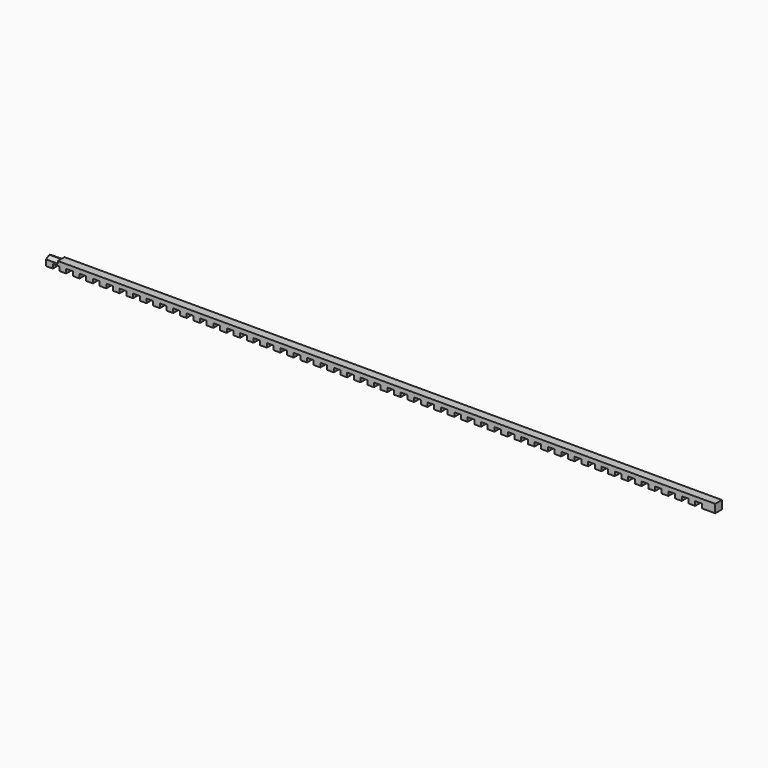
from build123d import *

# Parameters (mm, degrees)
F1_DEPTH = 25
F3_DEPTH = 70


with BuildPart() as f1:
    # F0 (on Front) → F1 (new body, symmetric)
    with BuildSketch(Plane.XZ):
        Polygon((0, 50), (0, 0), (40, 0), (40, 25), (80, 25), (80, 0), (120, 0), (120, 25), (160, 25), (160, 0), (200, 0), (200, 25), (240, 25), (240, 0), (280, 0), (280, 25), (320, 25), (320, 0), (360, 0), (360, 25), (400, 25), (400, 0), (440, 0), (440, 25), (480, 25), (480, 0), (520, 0), (520, 25), (560, 25), (560, 0), (600, 0), (600, 25), (640, 25), (640, 0), (680, 0), (680, 25), (720, 25), (720, 0), (760, 0), (760, 25), (800, 25), (800, 0), (840, 0), (840, 25), (880, 25), (880, 0), (920, 0), (920, 25), (960, 25), (960, 0), (1000, 0), (1000, 25), (1040, 25), (1040, 0), (1080, 0), (1080, 25), (1120, 25), (1120, 0), (1160, 0), (1160, 25), (1200, 25), (1200, 0), (1240, 0), (1240, 25), (1280, 25), (1280, 0), (1320, 0), (1320, 25), (1360, 25), (1360, 0), (1400, 0), (1400, 25), (1440, 25), (1440, 0), (1480, 0), (1480, 25), (1520, 25), (1520, 0), (1560, 0), (1560, 25), (1600, 25), (1600, 0), (1640, 0), (1640, 25), (1680, 25), (1680, 0), (1720, 0), (1720, 25), (1760, 25), (1760, 0), (1800, 0), (1800, 25), (1840, 25), (1840, 0), (1880, 0), (1880, 25), (1920, 25), (1920, 0), (1960, 0), (1960, 25), (2000, 25), (2000, 0), (2040, 0), (2040, 25), (2080, 25), (2080, 0), (2120, 0), (2120, 25), (2160, 25), (2160, 0), (2200, 0), (2200, 25), (2240, 25), (2240, 0), (2280, 0), (2280, 25), (2320, 25), (2320, 0), (2360, 0), (2360, 25), (2400, 25), (2400, 0), (2440, 0), (2440, 25), (2480, 25), (2480, 0), (2520, 0), (2520, 25), (2560, 25), (2560, 0), (2600, 0), (2600, 25), (2640, 25), (2640, 0), (2680, 0), (2680, 25), (2720, 25), (2720, 0), (2760, 0), (2760, 25), (2800, 25), (2800, 0), (2840, 0), (2840, 25), (2880, 25), (2880, 0), (2920, 0), (2920, 25), (2960, 25), (2960, 0), (3000, 0), (3000, 25), (3040, 25), (3040, 0), (3080, 0), (3080, 25), (3120, 25), (3120, 0), (3160, 0), (3160, 25), (3200, 25), (3200, 0), (3240, 0), (3240, 25), (3280, 25), (3280, 0), (3320, 0), (3320, 25), (3360, 25), (3360, 0), (3400, 0), (3400, 25), (3440, 25), (3440, 0), (3480, 0), (3480, 25), (3520, 25), (3520, 0), (3560, 0), (3560, 25), (3600, 25), (3600, 0), (3640, 0), (3640, 25), (3680, 25), (3680, 0), (3720, 0), (3720, 25), (3760, 25), (3760, 0), (3800, 0), (3800, 25), (3840, 25), (3840, 0), (3880, 0), (3880, 25), (3920, 25), (3920, 0), (4000, 0), (4000, 50), align=None)
    extrude(amount=F1_DEPTH, both=True)

    # F2 (on Right) → F3 (cut)
    with BuildSketch(Plane.YZ):
        Polygon((-25.124032, 50.158735), (-25.124032, 35.586163), (0, 50.091529), (0, 50.158735), align=None)
        Polygon((25.35684, 50.158735), (0.116404, 50.158735), (25.35684, 35.586163), align=None)
    extrude(amount=F3_DEPTH, mode=Mode.SUBTRACT)


solid = f1.part
